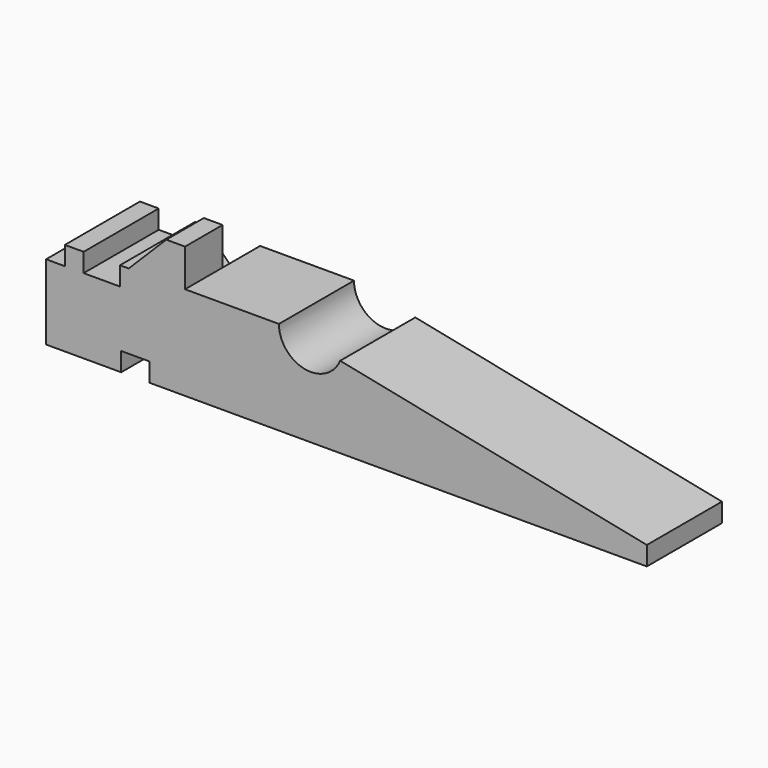
from build123d import *

# Parameters (mm, degrees)
PAD_DEPTH       = 10
SKETCH001_R     = 3.4
POCKET_DEPTH    = 10.001
PAD001_DEPTH    = 5
POCKET001_DEPTH = 5


with BuildPart() as part:
    # Sketch → Pad (new body)
    with BuildSketch(Plane(origin=(0, 0, 0), x_dir=(1, 0, 0), z_dir=(0, 1, 0))):
        Polygon((-62.846755, 25.248808), (-60.846755, 25.248808), (-60.846755, 23.248808), (-58.846755, 23.248808), (-58.846755, 25.248808), (-54.972908, 25.248808), (-54.972908, 23.248808), (-38.042093, 23.248808), (1.153245, 31.231634), (1.153245, 33.248808), (-51.846755, 33.248808), (-51.846755, 31.248808), (-54.846755, 31.248808), (-54.846755, 33.248808), (-62.846755, 33.248808), align=None)
    extrude(amount=PAD_DEPTH)

    # Sketch001 → Pocket (cut, through all)
    with BuildSketch(Plane(origin=(0, 10, 0), x_dir=(1, 0, 0), z_dir=(0, 1, 0))):
        with Locations((-34.642093, 23.248808)):
            Circle(SKETCH001_R)
    extrude(amount=-POCKET_DEPTH, mode=Mode.SUBTRACT)

    # Sketch002 → Pad001 (new body)
    with BuildSketch(Plane.XZ):
        Polygon((-48.042093, -23.248808), (-48.042093, -19.248808), (-50.042093, -19.248808), (-54.042093, -23.248808), align=None)
    extrude(amount=-PAD001_DEPTH)

    # Sketch003 → Pocket001 (cut)
    with BuildSketch(Plane(origin=(0, 10, 0), x_dir=(1, 0, 0), z_dir=(0, 1, 0))):
        Polygon((-48.042093, 23.248808), (-48.042093, 27.248808), (-50.042093, 27.248808), (-54.042093, 23.248808), align=None)
    extrude(amount=-POCKET001_DEPTH, mode=Mode.SUBTRACT)


solid = part.part
